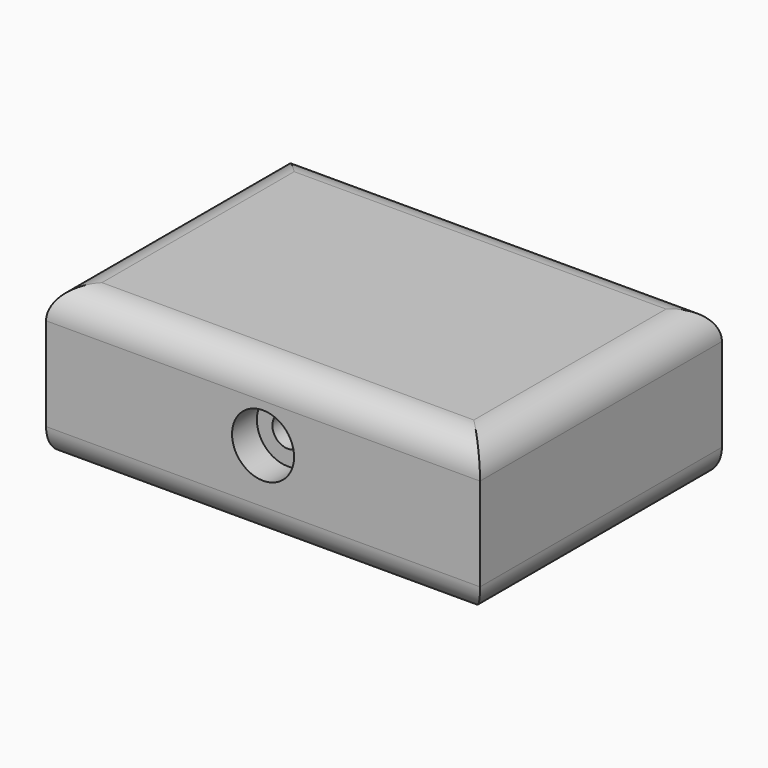
from build123d import *

# Parameters (mm, degrees)
F0_W           = 69.9042
F0_H           = 48.707396
F1_DEPTH       = 25
F2_R           = 5
F4_D           = 5
F4_CBORE_D     = 10
F4_CBORE_DEPTH = 5


with BuildPart() as f1:
    # F0 (on Top) → F1 (new body)
    with BuildSketch(Plane.XY):
        Rectangle(F0_W, F0_H)
    extrude(amount=F1_DEPTH)

    # F2
    f2_edges = [f1.edges().sort_by_distance(p)[0] for p in [
        (0, 24.353698, 25),
        (34.9521, 0, 25),
        (0, -24.353698, 25),
        (-34.9521, 0, 25),
        (0, -24.353698, 0),
        (34.9521, 0, 0),
    ]]
    fillet(f2_edges, radius=F2_R)

    # F4 (through all)
    with Locations(Plane.XZ.offset(24.353698)):
        with Locations((0, 13.67986)):
            CounterBoreHole(F4_D / 2, F4_CBORE_D / 2, F4_CBORE_DEPTH)


solid = f1.part
